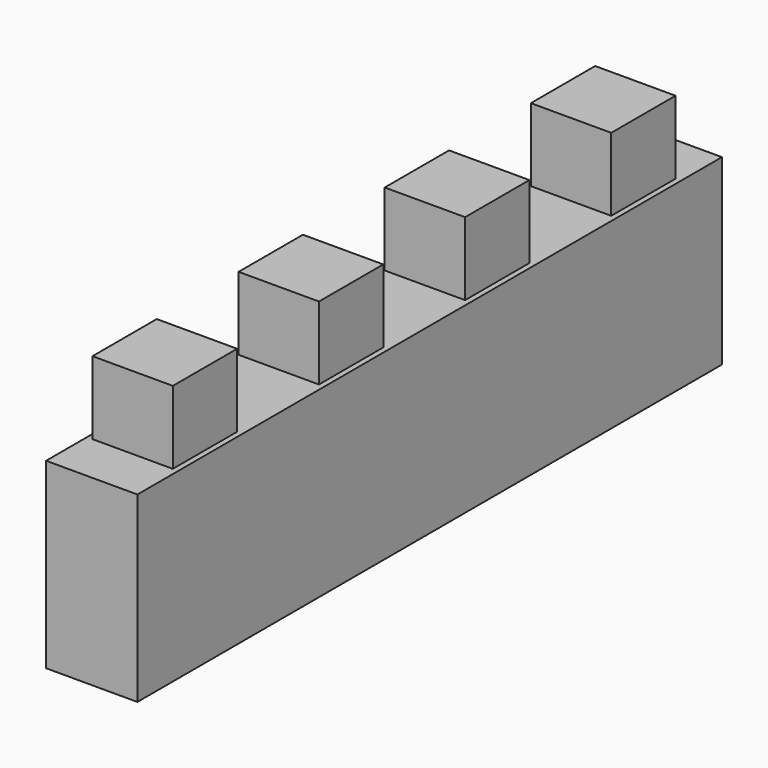
from build123d import *

# Parameters (mm, degrees)
BOX_W             = 10
BOX_H             = 10
BOX_DEPTH         = 10
SKETCH_W          = 4.4
SKETCH_H          = 4.4
PAD_DEPTH         = 4
PAD_FACE1_W       = 10
PAD_FACE1_H       = 10
POCKET_DEPTH      = 2.5
POCKET_FACE3_W    = 10
POCKET_FACE3_H    = 10
POCKET001_DEPTH   = 2.5
POCKET001_FACE6_W = 5
POCKET001_FACE6_H = 10
PAD001_DEPTH      = 10
SKETCH001_W       = 4.4
SKETCH001_H       = 4.4
PAD002_DEPTH      = 4
PAD002_FACE14_W   = 5
PAD002_FACE14_H   = 10
PAD003_DEPTH      = 10
SKETCH002_W       = 4.4
SKETCH002_H       = 4.4
PAD004_DEPTH      = 4
PAD004_FACE23_W   = 5
PAD004_FACE23_H   = 10
PAD005_DEPTH      = 10
SKETCH003_W       = 4.4
SKETCH003_H       = 4
PAD006_DEPTH      = 4
PAD006_FACE33_W   = 4.4
PAD006_FACE33_H   = 4
PAD007_DEPTH      = 0.4


with BuildPart() as part:
    # Box → Box (new body)
    with BuildSketch(Plane.XY):
        with Locations((5, 5)):
            Rectangle(BOX_W, BOX_H)
    extrude(amount=BOX_DEPTH)

    # Sketch (on Face6 of BaseFeature) → Pad (new body)
    with BuildSketch(Plane.XY.offset(10)):
        with Locations((5, 5)):
            Rectangle(SKETCH_W, SKETCH_H)
    extrude(amount=PAD_DEPTH)

    # Pad Face1 → Pocket (cut)
    with BuildSketch(Plane(origin=(0, 5, 5), x_dir=(0, 1, 0), z_dir=(-1, 0, 0))):
        Rectangle(PAD_FACE1_W, PAD_FACE1_H)
    extrude(amount=-POCKET_DEPTH, mode=Mode.SUBTRACT)

    # Pocket Face3 → Pocket001 (cut)
    with BuildSketch(Plane(origin=(10, 5, 5), x_dir=(0, -1, 0), z_dir=(1, 0, 0))):
        Rectangle(POCKET_FACE3_W, POCKET_FACE3_H)
    extrude(amount=-POCKET001_DEPTH, mode=Mode.SUBTRACT)

    # Pocket001 Face6 → Pad001 (add)
    with BuildSketch(Plane(origin=(5, 10, 5), x_dir=(1, 0, 0), z_dir=(0, 1, 0))):
        Rectangle(POCKET001_FACE6_W, POCKET001_FACE6_H)
    extrude(amount=PAD001_DEPTH)

    # Sketch001 (on Face8 of Pad001) → Pad002 (join)
    with BuildSketch(Plane.XY.offset(10)):
        with Locations((5, 15)):
            Rectangle(SKETCH001_W, SKETCH001_H)
    extrude(amount=PAD002_DEPTH)

    # Pad002 Face14 → Pad003 (add)
    with BuildSketch(Plane(origin=(5, 20, 5), x_dir=(1, 0, 0), z_dir=(0, 1, 0))):
        Rectangle(PAD002_FACE14_W, PAD002_FACE14_H)
    extrude(amount=PAD003_DEPTH)

    # Sketch002 (on Face16 of Pad003) → Pad004 (join)
    with BuildSketch(Plane.XY.offset(10)):
        with Locations((5, 25)):
            Rectangle(SKETCH002_W, SKETCH002_H)
    extrude(amount=PAD004_DEPTH)

    # Pad004 Face23 → Pad005 (add)
    with BuildSketch(Plane(origin=(5, 30, 5), x_dir=(1, 0, 0), z_dir=(0, 1, 0))):
        Rectangle(PAD004_FACE23_W, PAD004_FACE23_H)
    extrude(amount=PAD005_DEPTH)

    # Sketch003 (on Face25 of Pad005) → Pad006 (join)
    with BuildSketch(Plane.XY.offset(10)):
        with Locations((5, 34.8)):
            Rectangle(SKETCH003_W, SKETCH003_H)
    extrude(amount=PAD006_DEPTH)

    # Pad006 Face33 → Pad007 (add)
    with BuildSketch(Plane(origin=(5, 36.8, 12), x_dir=(1, 0, 0), z_dir=(0, 1, 0))):
        Rectangle(PAD006_FACE33_W, PAD006_FACE33_H)
    extrude(amount=PAD007_DEPTH)


solid = part.part
